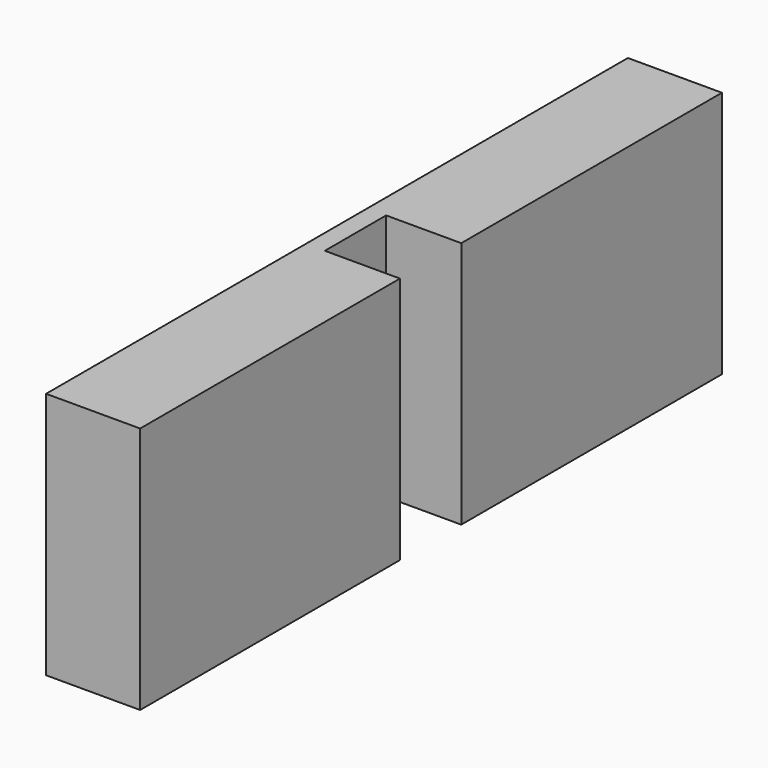
from build123d import *

# Parameters (mm, degrees)
F0_W     = 52
F0_H     = 402
F1_DEPTH = 137
F3_DEPTH = 137


with BuildPart() as f1:
    # F0 (on Top) → F1 (new body)
    with BuildSketch(Plane.XY):
        with Locations((-69.62967, -28.195908)):
            Rectangle(F0_W, F0_H)
    extrude(amount=F1_DEPTH)

    # F2 (on face) → F3 (cut)
    with BuildSketch(Plane.XY.offset(137)):
        Polygon((-43.62967, -49.663771), (-43.62967, -28.195908), (-43.62967, -7.30575), (-85.1679, -7.30575), (-85.1679, -49.663771), align=None)
    extrude(amount=-F3_DEPTH, mode=Mode.SUBTRACT)


solid = f1.part
